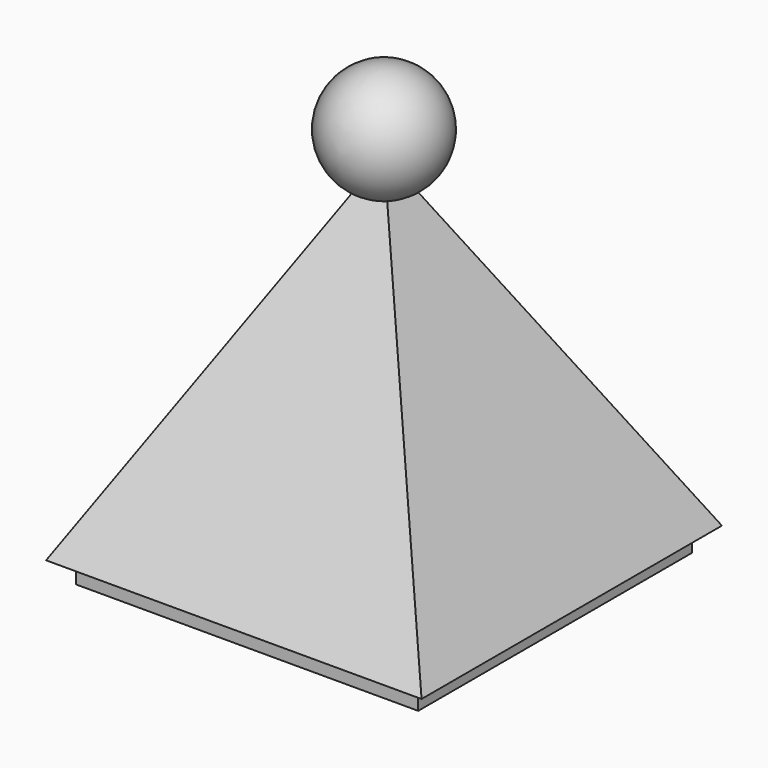
from build123d import *

# Parameters (mm, degrees)
F0_W     = 50
F0_H     = 50
F5_W     = 45.6
F5_H     = 45.6
F6_DEPTH = 3


with BuildPart() as f2:
    # F0 (on Top) → F2 section 0
    with BuildSketch(Plane.XY, mode=Mode.PRIVATE) as f2_s0:
        Rectangle(F0_W, F0_H)
    loft([f2_s0.sketch, Vertex(0, 0, 45.518458)])

    # F3 (on Right) → F4 (revolve)
    with BuildSketch(Plane.YZ):
        with BuildLine():
            Line((0, 41.007266), (0, 56.007266))
            ThreePointArc((0, 56.007266), (-7.5, 48.507266), (0, 41.007266))
        make_face()
    revolve(axis=Axis((0, 0, 48.507266), (0, 0, -1)))

    # F5 (on Top) → F6 (join)
    with BuildSketch(Plane.XY):
        Rectangle(F5_W, F5_H)
    extrude(amount=-F6_DEPTH)


solid = f2.part
